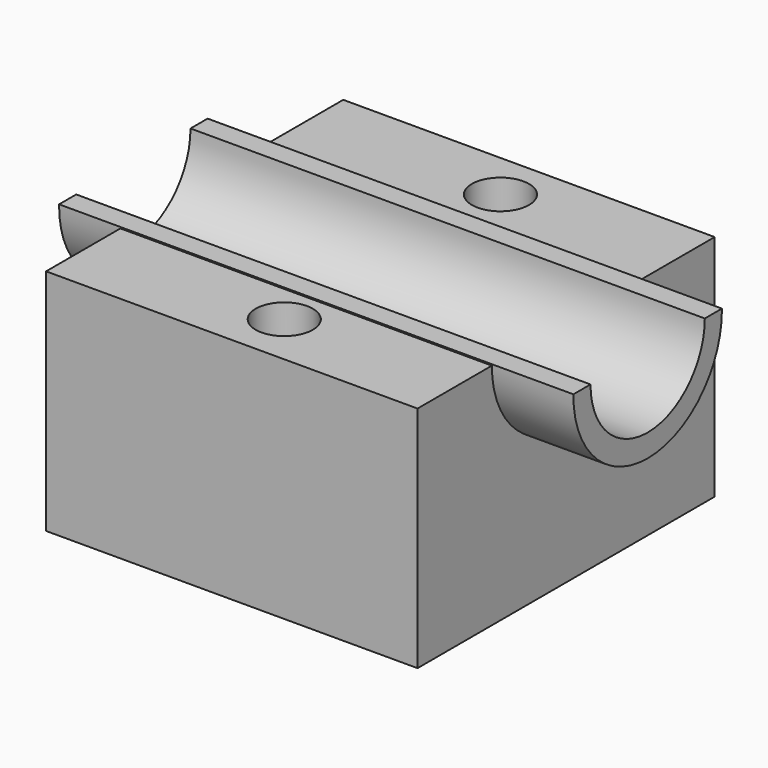
from build123d import *

# Parameters (mm, degrees)
F0_W      = 130
F0_H      = 80
F1_DEPTH  = 65
F4_DEPTH  = 90
F6_D      = 50
F8_R      = 10
F9_DEPTH  = 100
F7_R      = 10
F10_DEPTH = 100


with BuildPart() as f1:
    # F0 (on Front) → F1 (new body)
    with BuildSketch(Plane.XZ):
        with Locations((-3.5409145057, -0.5533536838)):
            Rectangle(F0_W, F0_H)
    extrude(amount=F1_DEPTH)

    # F2: F1 across face


with BuildPart() as f1_1:
    add(f1.part)
    add(f1.part.mirror(Plane(origin=(-3.5409145057, 0, -0.5533536838), x_dir=(1, 0, 0), z_dir=(0, 1, 0))))

    # F3 (on Right) → F4 (join, symmetric)
    with BuildSketch(Plane.YZ):
        with BuildLine():
            Line((32.4888588476, 39.8981455717), (-32.4888588476, 39.8981455717))
            ThreePointArc((-32.4888588476, 39.8981455717), (0, 6.9546503664), (32.4888588476, 39.8981455717))
        make_face()
    extrude(amount=F4_DEPTH, both=True)

    # F6 (through all)
    with Locations(Plane(origin=(-90, 0, 0), x_dir=(0, -1, 0), z_dir=(-1, 0, 0))):
        with Locations((0, 39.8981455717)):
            Hole(F6_D / 2)

    # F8 (on face) → F9 (cut)
    with BuildSketch(Plane.XY.offset(39.4466463162)):
        with Locations((0, 48.0979235456)):
            Circle(F8_R)
    extrude(amount=-F9_DEPTH, mode=Mode.SUBTRACT)

    # F7 (on face) → F10 (cut)
    with BuildSketch(Plane.XY.offset(39.4466463162)):
        with Locations((0, -46.4860715879)):
            Circle(F7_R)
    extrude(amount=-F10_DEPTH, mode=Mode.SUBTRACT)


solid = f1_1.part
